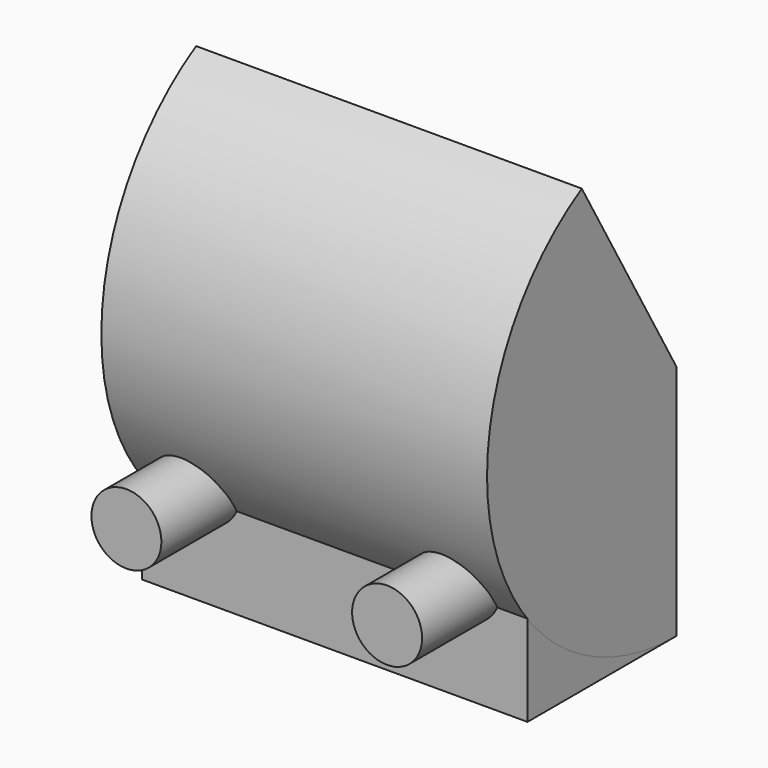
from build123d import *

# Parameters (mm, degrees)
F0_R     = 20.897114
F1_DEPTH = 111.252
F2_DEPTH = 169.418
F3_ANGLE = -150


with BuildPart() as f1:
    # F0 (on Front) → F1 (new body)
    with BuildSketch(Plane.XZ):
        Polygon((50.346687, 0), (0, 0), (-50.346687, 0), (-63.608736, 34.628697), (-115.183398, 34.628697), (-115.183398, 0), (-115.183398, -106.833205), (0, -106.833205), (115.183398, -106.833205), (115.183398, 0), (115.183398, 34.628697), (63.608736, 34.628697), align=None)
        with Locations((-77.853166, -44.45244)):
            Circle(F0_R, mode=Mode.SUBTRACT)
        with Locations((77.853166, -44.45244)):
            Circle(F0_R, mode=Mode.SUBTRACT)
    extrude(amount=F1_DEPTH)

    # F0 (on Front) → F2 (join)
    with BuildSketch(Plane.XZ):
        with Locations((77.853166, -44.45244)):
            Circle(F0_R)
        with Locations((-77.853166, -44.45244)):
            Circle(F0_R)
    extrude(amount=F2_DEPTH)


with BuildPart() as f3:
    # F0 (on Front) → F3 (revolve)
    with BuildSketch(Plane.XZ):
        Polygon((50.346687, 0), (0, 0), (-50.346687, 0), (-63.608736, 34.628697), (-115.183398, 34.628697), (-115.183398, 0), (-115.183398, -106.833205), (0, -106.833205), (115.183398, -106.833205), (115.183398, 0), (115.183398, 34.628697), (63.608736, 34.628697), align=None)
        with Locations((-77.853166, -44.45244)):
            Circle(F0_R, mode=Mode.SUBTRACT)
        with Locations((77.853166, -44.45244)):
            Circle(F0_R, mode=Mode.SUBTRACT)
    revolve(axis=Axis((89.396067, 0, 34.628697), (1, 0, 0)), revolution_arc=F3_ANGLE)


solid = Compound([f1.part, f3.part])
